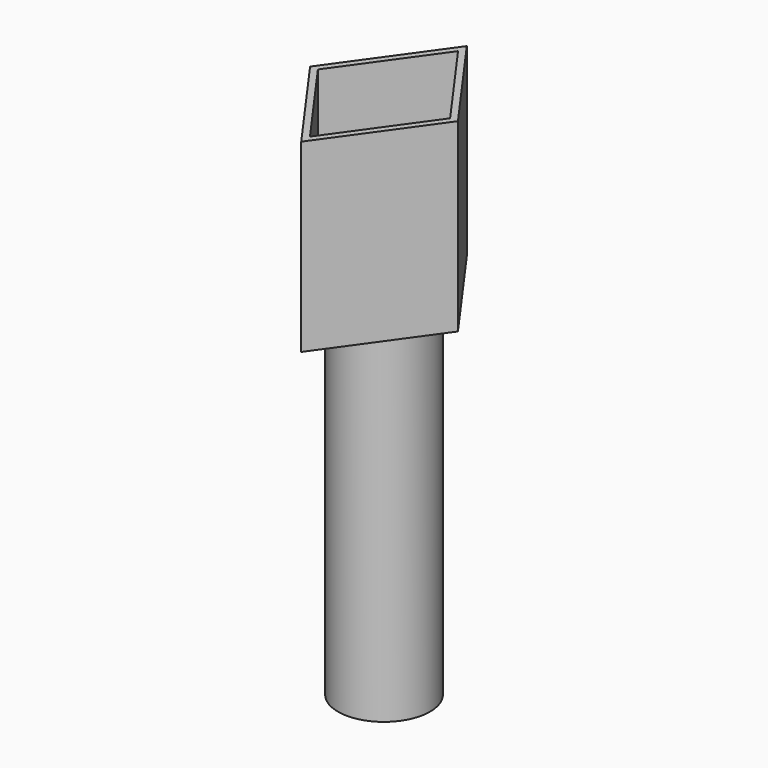
from build123d import *

# Parameters (mm, degrees)
F0_R     = 8.7
F0_R_2   = 7.5
F1_DEPTH = 65
F3_DEPTH = 35
F4_DEPTH = 1.2


with BuildPart() as f1:
    # F0 (on Top) → F1 (new body)
    with BuildSketch(Plane.XY):
        Circle(F0_R)
        Circle(F0_R_2, mode=Mode.SUBTRACT)
    extrude(amount=F1_DEPTH)



with BuildPart() as f3:
    # F2 (on face) → F3 (new body)
    with BuildSketch(Plane.XY.offset(65)):
        Polygon((13.974684, 0), (0, 19.564558), (-13.974684, 0), (0, -19.564558), align=None)
        Polygon((-12.5, 0), (0, 17.5), (12.5, 0), (0, -17.5), align=None, mode=Mode.SUBTRACT)
    extrude(amount=F3_DEPTH)


with BuildPart() as f1_1:
    add(f1.part)

    add(f3.part)  # F4 merges F3
    # F2 (on face) → F4 (join)
    with BuildSketch(Plane.XY.offset(65)):
        with BuildLine():
            ThreePointArc((0, -8.7), (-8.7, 0), (0, 8.7))
            Line((0, 8.7), (0, 17.5))
            Line((0, 17.5), (-12.5, 0))
            Line((-12.5, 0), (0, -17.5))
            Line((0, -17.5), (0, -8.7))
        make_face()
        with BuildLine():
            Line((0, 17.5), (0, 8.7))
            ThreePointArc((0, 8.7), (6.151829, 6.151829), (8.7, 0))
            ThreePointArc((8.7, 0), (6.151829, -6.151829), (0, -8.7))
            Line((0, -8.7), (0, -17.5))
            Line((0, -17.5), (12.5, 0))
            Line((12.5, 0), (0, 17.5))
        make_face()
    extrude(amount=F4_DEPTH)


solid = f1_1.part
